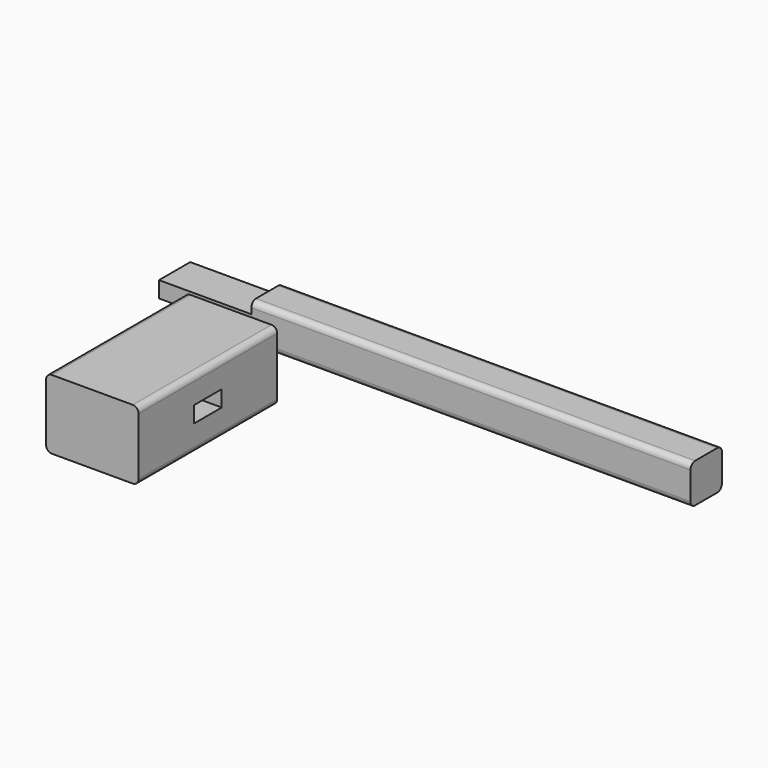
from build123d import *

# Parameters (mm, degrees)
F0_W     = 80
F0_H     = 60
F1_DEPTH = 150
F2_W     = 30
F2_H     = 14
F3_DEPTH = 80.001
F4_W     = 34
F4_H     = 34
F5_DEPTH = 380
F6_R     = 5
F6_2_R   = 5
F7_W     = 33.764725
F7_H     = 14
F8_DEPTH = 80


with BuildPart() as f1:
    # F0 (on Front) → F1 (new body)
    with BuildSketch(Plane.XZ):
        with Locations((5.723887, -7.325317)):
            Rectangle(F0_W, F0_H)
    extrude(amount=F1_DEPTH)

    # F2 (on face) → F3 (cut, through all)
    with BuildSketch(Plane(origin=(-34.276113, 0, 0), x_dir=(0, -1, 0), z_dir=(-1, 0, 0))):
        with Locations((75, -7.325317)):
            Rectangle(F2_W, F2_H)
    extrude(amount=-F3_DEPTH, mode=Mode.SUBTRACT)

    # F6#2
    f6_2_edges = [f1.edges().sort_by_distance(p)[0] for p in [
        (45.723887, -75, -37.325317),
        (-34.276113, -75, -37.325317),
        (-34.276113, -75, 22.674683),
        (45.723887, -75, 22.674683),
    ]]
    fillet(f6_2_edges, radius=F6_2_R)


with BuildPart() as f5:
    # F4 (on Right) → F5 (new body)
    with BuildSketch(Plane.YZ):
        with Locations((46.148908, -1.453934)):
            Rectangle(F4_W, F4_H)
    extrude(amount=F5_DEPTH)

    # F6
    f6_edges = [f5.edges().sort_by_distance(p)[0] for p in [
        (190, 63.148908, 15.546066),
        (190, 29.148908, 15.546066),
        (190, 29.148908, -18.453934),
        (190, 63.148908, -18.453934),
    ]]
    fillet(f6_edges, radius=F6_R)

    # F7 (on face) → F8 (join)
    with BuildSketch(Plane.YZ):
        with Locations((46.148908, -1.453934)):
            Rectangle(F7_W, F7_H)
    extrude(amount=-F8_DEPTH)


solid = Compound([f1.part, f5.part])
